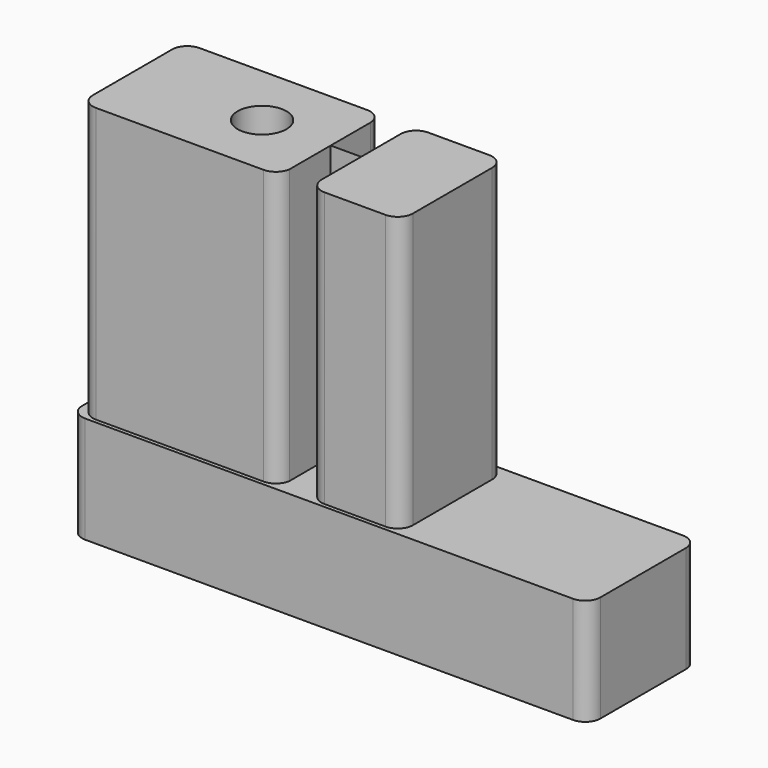
from build123d import *

# Parameters (mm, degrees)
SKETCH_R     = 1.6
PAD_DEPTH    = 18
SKETCH001_R  = 1.65
PAD001_DEPTH = 7


with BuildPart() as part:
    # Sketch → Pad (new body)
    with BuildSketch(Plane.XY):
        with BuildLine():
            ThreePointArc((-7.5, 4.25), (-8.207107, 3.957107), (-8.5, 3.25))
            Line((-8.5, -3.25), (-8.5, 3.25))
            ThreePointArc((-8.5, -3.25), (-8.207107, -3.957107), (-7.5, -4.25))
            Line((3.506737, -4.25), (-7.5, -4.25))
            ThreePointArc((3.506737, -4.25), (4.171612, -3.996955), (4.5, -3.365883))
            Line((4.5, 0), (4.5, -3.365883))
            Line((4.5, 0), (6.5, 0))
            Line((6.5, -3.25), (6.5, 0))
            ThreePointArc((6.5, -3.25), (6.792893, -3.957107), (7.5, -4.25))
            Line((11.5, -4.25), (7.5, -4.25))
            ThreePointArc((11.5, -4.25), (12.207107, -3.957107), (12.5, -3.25))
            Line((12.5, 3.25), (12.5, -3.25))
            ThreePointArc((12.5, 3.25), (12.207107, 3.957107), (11.5, 4.25))
            Line((7.5, 4.25), (11.5, 4.25))
            ThreePointArc((7.5, 4.25), (6.793016, 3.957229), (6.5, 3.250346))
            Line((6.5, 0.001), (6.5, 3.250346))
            Line((4.5, 0.001), (6.5, 0.001))
            Line((4.5, 3.25), (4.5, 0.001))
            ThreePointArc((4.5, 3.25), (4.207107, 3.957107), (3.5, 4.25))
            Line((-7.5, 4.25), (3.5, 4.25))
        make_face()
        Circle(SKETCH_R, mode=Mode.SUBTRACT)
    extrude(amount=PAD_DEPTH)

    # Sketch001 → Pad001 (join)
    with BuildSketch(Plane.XY):
        with BuildLine():
            ThreePointArc((-8, 4.5), (-8.707107, 4.207107), (-9, 3.5))
            Line((-9, -3.5), (-9, 3.5))
            ThreePointArc((-9, -3.5), (-8.707107, -4.207107), (-8, -4.5))
            Line((24, -4.5), (-8, -4.5))
            ThreePointArc((24, -4.5), (24.707107, -4.207107), (25, -3.5))
            Line((25, 3.5), (25, -3.5))
            ThreePointArc((25, 3.5), (24.707107, 4.207107), (24, 4.5))
            Line((-8, 4.5), (24, 4.5))
        make_face()
        Circle(SKETCH001_R, mode=Mode.SUBTRACT)
    extrude(amount=-PAD001_DEPTH)


solid = part.part
